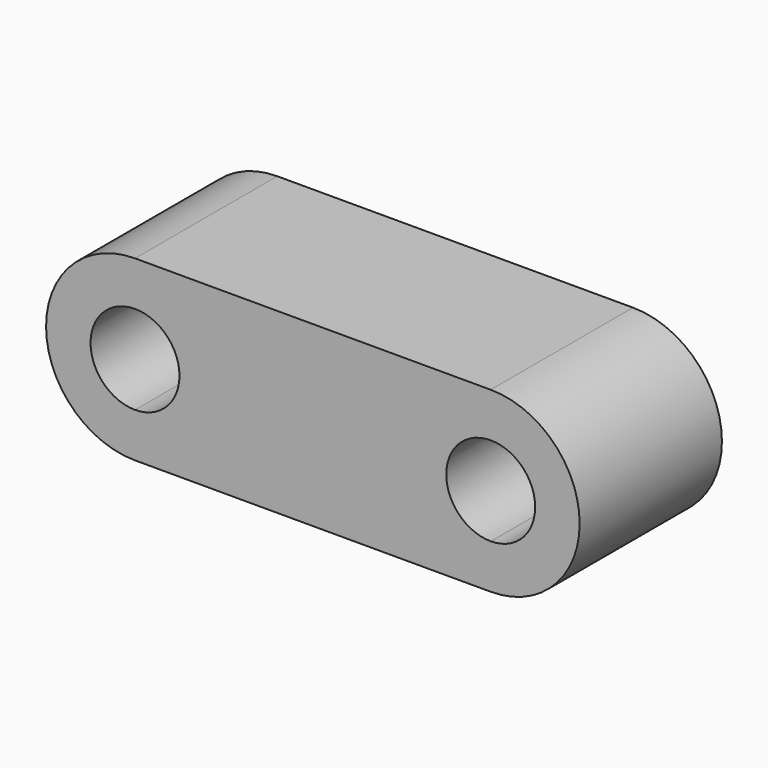
from build123d import *

# Parameters (mm, degrees)
F1_DEPTH = 20


with BuildPart() as f1:
    # F0 (on Front) → F1 (new body)
    with BuildSketch(Plane.XZ):
        with BuildLine():
            Line((0, 5), (0, 0))
            Line((0, 0), (40, 0))
            Line((40, 0), (40, 5))
            ThreePointArc((40, 5), (35, 10), (40, 15))
            Line((40, 15), (40, 20))
            Line((40, 20), (0, 20))
            Line((0, 20), (0, 15))
            ThreePointArc((0, 15), (3.535534, 13.535534), (5, 10))
            ThreePointArc((5, 10), (3.535534, 6.464466), (0, 5))
        make_face()
        with BuildLine():
            ThreePointArc((0, 20), (-10, 10), (0, 0))
            Line((0, 0), (0, 5))
            ThreePointArc((0, 5), (-5, 10), (0, 15))
            Line((0, 15), (0, 20))
        make_face()
        with BuildLine():
            Line((40, 5), (40, 0))
            ThreePointArc((40, 0), (50, 10), (40, 20))
            Line((40, 20), (40, 15))
            ThreePointArc((40, 15), (43.535534, 13.535534), (45, 10))
            ThreePointArc((45, 10), (43.535534, 6.464466), (40, 5))
        make_face()
    extrude(amount=F1_DEPTH)


solid = f1.part
